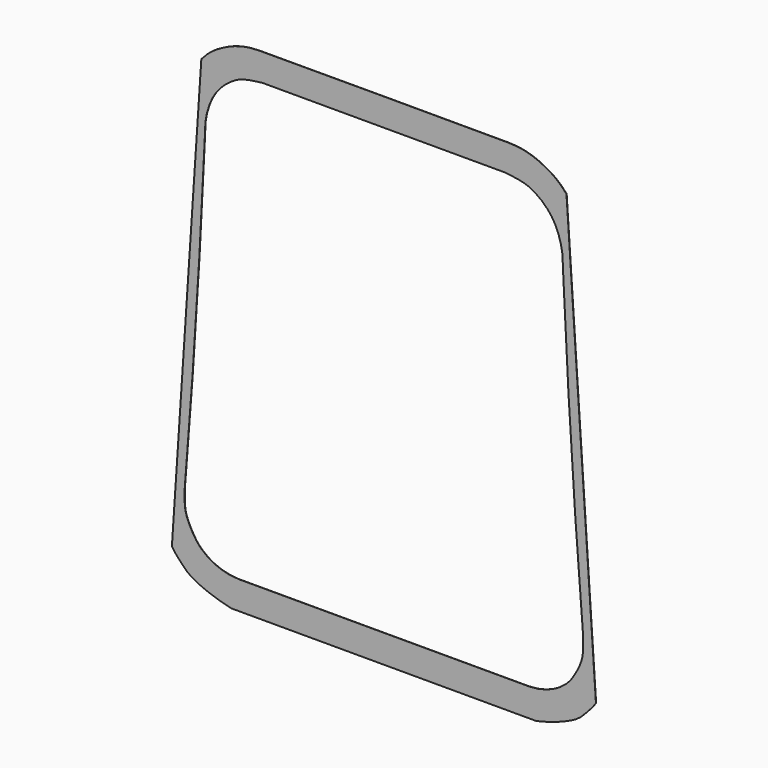
from build123d import *

# Parameters (mm, degrees)
F1_DEPTH = 4


with BuildPart() as f1:
    # F0 (on Front) → F1 (new body)
    with BuildSketch(Plane.XZ):
        Polygon((-3103.0037, 4031.7293), (-3203.7147, 3925.6335), (-3720.8079, -3771.3793), (-3680.4219, -3829.2659), (-3630.5617, -3889.8195), (-3543.5667, -3984.5869), (-3453.9809, -4074.6553), (-3372.2691, -4133.7611), (-3283.2167, -4182.4783), (-3179.1529, -4229.7985), (-3072.9809, -4271.5053), (-2876.7405, -4337.1389), (-2676.4615, -4389.1835), (-0.0127, -4389.1835), (2676.4615, -4389.1835), (2876.7151, -4337.1389), (3072.9555, -4271.5053), (3179.1275, -4229.7985), (3283.1913, -4182.4783), (3372.2437, -4133.7611), (3453.9555, -4074.6553), (3543.5413, -3984.5869), (3630.5363, -3889.8195), (3680.3965, -3829.2659), (3720.8079, -3771.3793), (3203.6893, 3925.6335), (3102.9783, 4031.7293), (3022.7143, 4100.1569), (2936.4813, 4160.7359), (2819.7175, 4226.3695), (2721.5465, 4273.8421), (2620.4799, 4314.3805), (2502.1667, 4349.0769), (2421.0391, 4366.0949), (2338.9971, 4377.7789), (2180.6281, 4386.5927), (2061.9339, 4386.6181), (-0.0127, 4389.1835), (-2061.9339, 4386.6181), (-2180.6281, 4386.5927), (-2339.0225, 4377.7789), (-2421.0391, 4366.0949), (-2502.1921, 4349.0769), (-2620.5053, 4314.3805), (-2721.5465, 4273.8421), (-2819.7429, 4226.3695), (-2936.5067, 4160.7359), (-3022.7143, 4100.1569), align=None)
        Polygon((-3144.1009, 2713.7233), (-3132.6709, 2974.8353), (-3106.1533, 3118.9295), (-3063.6337, 3259.3153), (-3010.9033, 3381.7433), (-2948.3177, 3486.5437), (-2873.1083, 3580.7015), (-2784.5131, 3668.7379), (-2690.5585, 3738.5625), (-2623.7565, 3782.1489), (-2553.7795, 3819.5631), (-2465.6669, 3851.0591), (-2373.8967, 3871.7601), (-2275.5225, 3887.3303), (-2135.1621, 3906.3803), (-0.0127, 3906.3803), (2135.1367, 3906.3803), (2275.4971, 3887.3303), (2373.8967, 3871.7601), (2465.6415, 3851.0591), (2553.7795, 3819.5631), (2623.7565, 3782.1489), (2690.5331, 3738.5625), (2784.4877, 3668.7379), (2873.0829, 3580.7015), (2948.2923, 3486.5437), (3010.8779, 3381.7433), (3063.6083, 3259.3153), (3106.1279, 3118.9295), (3132.6709, 2974.8353), (3144.0755, 2713.7233), (3238.4619, 864.4255), (3356.3179, -983.5769), (3497.6181, -2829.8775), (3496.0433, -3009.6333), (3491.4459, -3077.6545), (3481.6161, -3144.8121), (3462.0327, -3215.3225), (3435.2611, -3283.7247), (3394.9513, -3368.2559), (3349.6885, -3450.1201), (3293.5291, -3537.3945), (3248.0631, -3593.6809), (3197.3139, -3645.3699), (3102.0639, -3721.4937), (3037.6749, -3762.2607), (2970.2633, -3797.8207), (2850.8071, -3845.8013), (2700.1851, -3882.4535), (2545.9055, -3896.1695), (-0.0127, -3896.1695), (-2545.9055, -3896.1695), (-2700.2105, -3882.4535), (-2850.8325, -3845.8013), (-2970.2887, -3797.8207), (-3037.7003, -3762.2607), (-3102.0893, -3721.4937), (-3197.3393, -3645.3699), (-3248.0631, -3593.6809), (-3293.5545, -3537.3945), (-3349.7139, -3450.1201), (-3394.9767, -3368.2559), (-3435.2611, -3283.7247), (-3462.0581, -3215.3225), (-3481.6161, -3144.8121), (-3491.4459, -3077.6545), (-3496.0687, -3009.6333), (-3497.6435, -2829.8775), (-3356.3433, -983.5769), (-3238.4873, 864.4255), align=None, mode=Mode.SUBTRACT)
    extrude(amount=F1_DEPTH)


solid = f1.part
